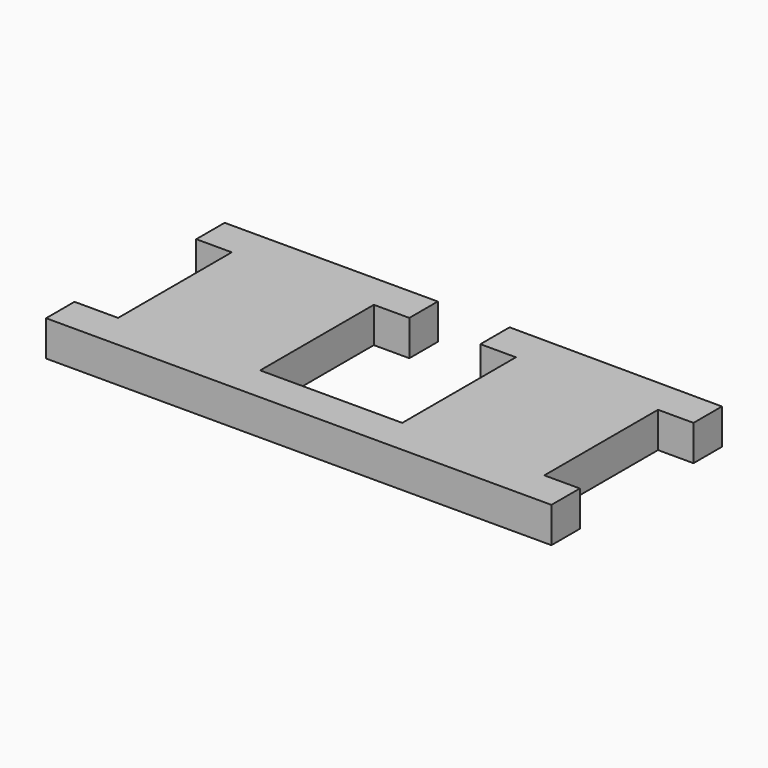
from build123d import *

# Parameters (mm, degrees)
F1_DEPTH = 25.4


with BuildPart() as f1:
    # F0 (on Top) → F1 (new body)
    with BuildSketch(Plane.XY):
        Polygon((50.8, 50.8), (50.8, -50.8), (-50.8, -50.8), (-50.8, 50.8), (-25.4, 50.8), (-25.4, 76.2), (-76.2, 76.2), (-177.8, 76.2), (-177.8, 50.8), (-152.4, 50.8), (-152.4, -50.8), (-183.57791, -50.8), (-183.57791, -76.2), (177.8, -76.2), (177.8, -50.8), (152.4, -50.8), (152.4, 50.8), (177.8, 50.8), (177.8, 76.2), (25.4, 76.897721), (25.4, 50.8), align=None)
    extrude(amount=F1_DEPTH)


solid = f1.part
